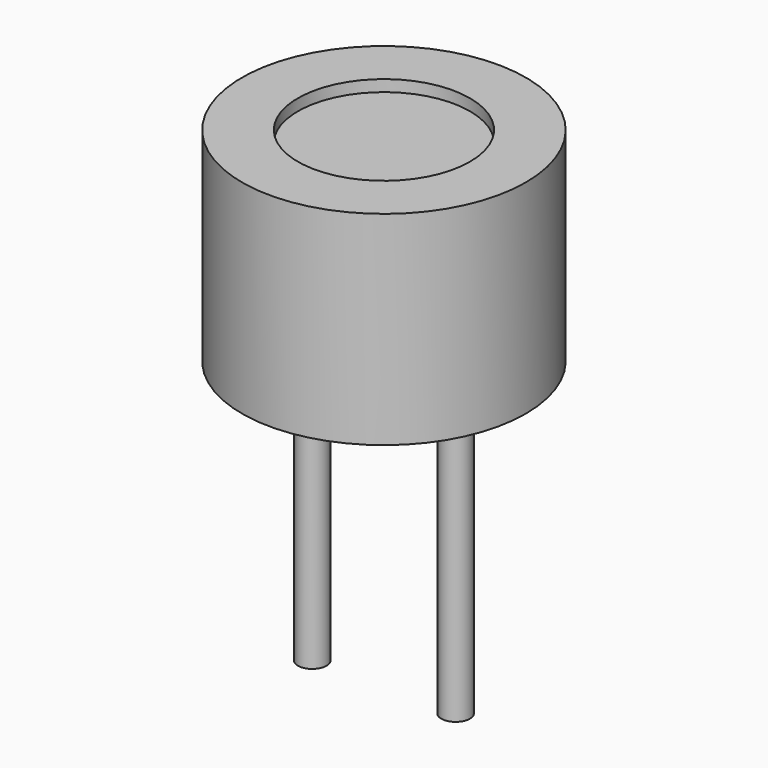
from build123d import *

# Parameters (mm, degrees)
SKETCH_R     = 4.95
PAD_DEPTH    = 7.1
SKETCH001_R  = 0.5
PAD001_DEPTH = 10
SKETCH002_R  = 3
POCKET_DEPTH = 0.4


with BuildPart() as part:
    # Sketch → Pad (new body)
    with BuildSketch(Plane.XY):
        Circle(SKETCH_R)
    extrude(amount=PAD_DEPTH)

    # Sketch001 → Pad001 (new body)
    with BuildSketch(Plane(origin=(0, 0, 0), x_dir=(1, 0, 0), z_dir=(0, 0, -1))):
        with Locations((2.5, 0)):
            Circle(SKETCH001_R)
        with Locations((-2.5, 0)):
            Circle(SKETCH001_R)
    extrude(amount=PAD001_DEPTH)

    # Sketch002 → Pocket (cut)
    with BuildSketch(Plane.XY.offset(7.1)):
        Circle(SKETCH002_R)
    extrude(amount=-POCKET_DEPTH, mode=Mode.SUBTRACT)


solid = part.part
